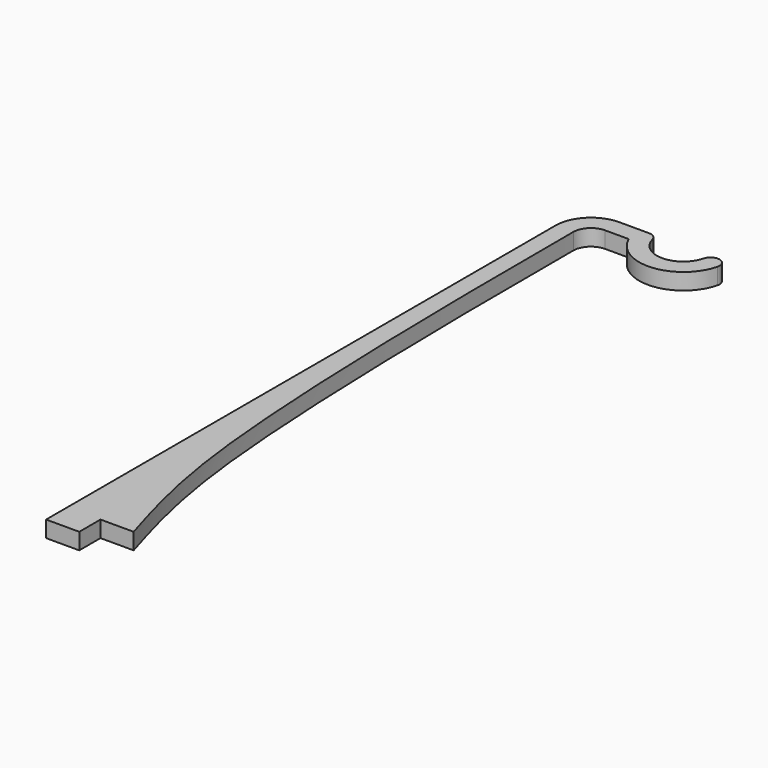
from build123d import *

# Parameters (mm, degrees)
F0_W     = 7.5
F0_H     = 6
F1_DEPTH = 3.7


with BuildPart() as f1:
    # F0 (on Top) → F1 (new body)
    with BuildSketch(Plane.XY):
        with Locations((3.75, -3)):
            Rectangle(F0_W, F0_H)
        with BuildLine():
            Line((0, 138), (0, 0))
            Line((0, 0), (7.5, 0))
            Line((7.5, 0), (15, 0))
            add(Edge.make_bspline(
                [(3.9876077292, 138.0097575426), (3.8926398917, 99.0788263893), (4.8807847455, 33.5988670656), (12.3032608179, 8.9511466575), (15, 0)],
                knots=[0.0214134769, 0.0214134769, 0.0214134769, 0.0214134769, 0.6464587877, 1, 1, 1, 1], degree=3))
            ThreePointArc((3.9876077292, 138.0097575426), (5.162620622, 140.8318748357), (7.987595828, 142))
            Line((7.987595828, 142), (13.3348486101, 142))
            ThreePointArc((13.3348486101, 142), (23.2933483641, 136.0315197561), (32.1824583655, 143.5))
            ThreePointArc((32.1824583655, 143.5), (31.8271055225, 145.2247448714), (30.2459666924, 146))
            ThreePointArc((30.2459666924, 146), (29.021221821, 145.5811388301), (28.3094750193, 144.5))
            ThreePointArc((28.3094750193, 144.5), (22.5, 140), (16.6905249807, 144.5))
            ThreePointArc((16.6905249807, 144.5), (15.978778179, 145.5811388301), (14.7540333076, 146))
            Line((14.7540333076, 146), (8, 146))
            ThreePointArc((8, 146), (2.3431457505, 143.6568542495), (0, 138))
        make_face()
    extrude(amount=F1_DEPTH)


solid = f1.part
